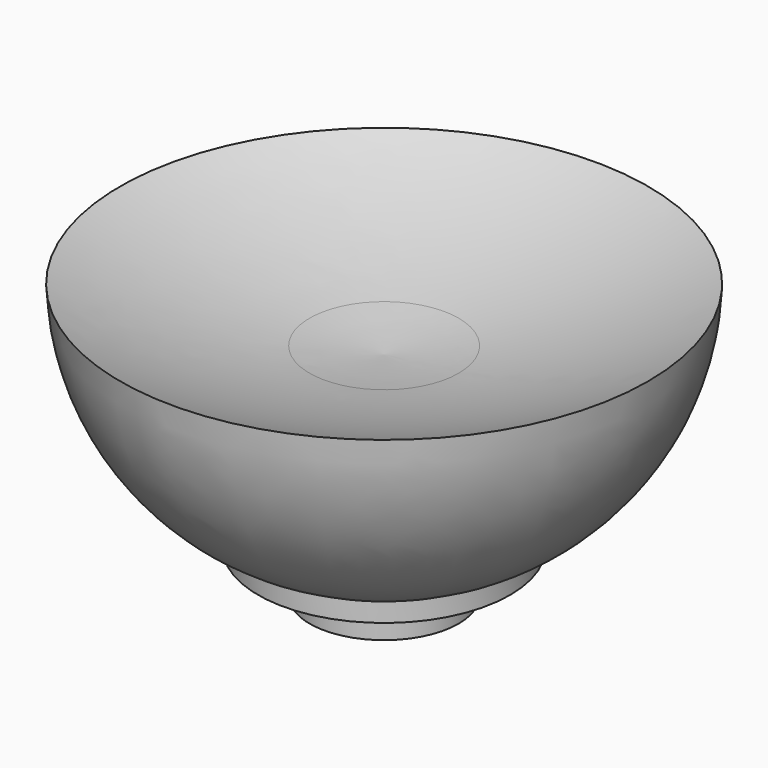
from build123d import *


with BuildPart() as f1:
    # F0 (on Front) → F1 (revolve)
    with BuildSketch(Plane.XZ):
        with BuildLine():
            Line((0, 11.410439), (0, 0))
            Line((0, 0), (4, 0))
            Line((4, 0), (4, 2.25))
            Line((4, 2.25), (4, 11.828035))
            ThreePointArc((4, 11.828035), (2.005054, 11.570825), (0, 11.410439))
        make_face()
        with BuildLine():
            Line((4, 11.828035), (4, 2.25))
            ThreePointArc((4, 2.25), (5.407904, 2.681161), (6.7599, 3.264427))
            ThreePointArc((6.7599, 3.264427), (12.037921, 7.990933), (14.162157, 14.75))
            ThreePointArc((14.162157, 14.75), (9.174384, 12.964515), (4, 11.828035))
        make_face()
        with BuildLine():
            ThreePointArc((6.7599, 3.264427), (5.407904, 2.681161), (4, 2.25))
            Line((4, 2.25), (6.7599, 2.25))
            Line((6.7599, 2.25), (6.7599, 3.264427))
        make_face()
    revolve(axis=Axis((0, 0, 5.70522), (0, 0, -1)))


solid = f1.part
